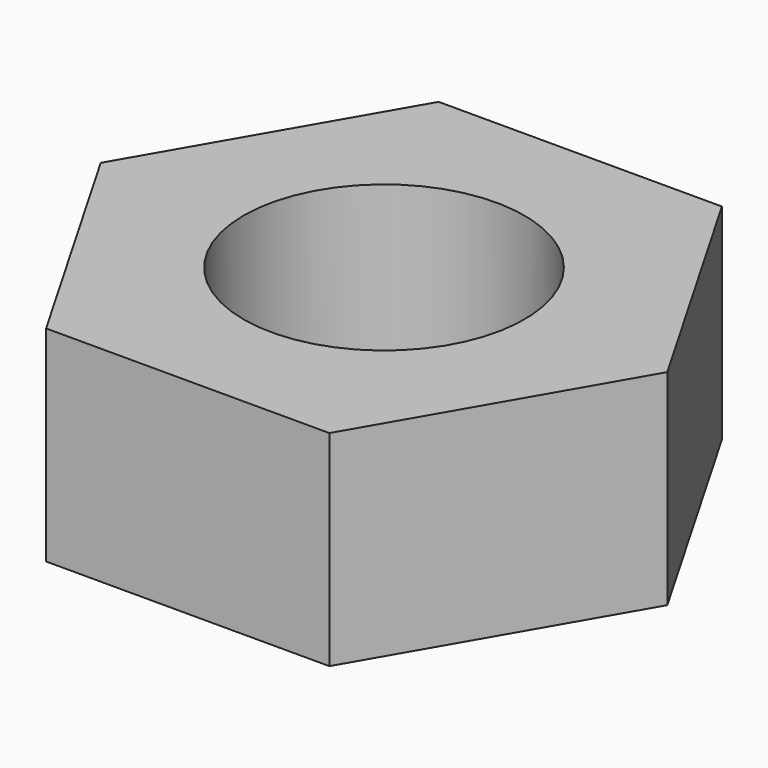
from build123d import *

# Parameters (mm, degrees)
F1_DEPTH = 2.3
F2_D     = 3.15


with BuildPart() as f1:
    # F0 (on Top) → F1 (new body)
    with BuildSketch(Plane.XY):
        Polygon((2.0131397208, 1.1622867597), (0.4254264805, 3.9122867597), (-2.75, 3.9122867597), (-4.3377132403, 1.1622867597), (-2.75, -1.5877132403), (0.4254264805, -1.5877132403), align=None)
    extrude(amount=F1_DEPTH)

    # F2 (through all)
    with Locations(Plane(origin=(0, 0, 0), x_dir=(1, 0, 0), z_dir=(0, 0, -1))):
        with Locations((-1.1622867597, -1.1622867597)):
            Hole(F2_D / 2)


solid = f1.part
